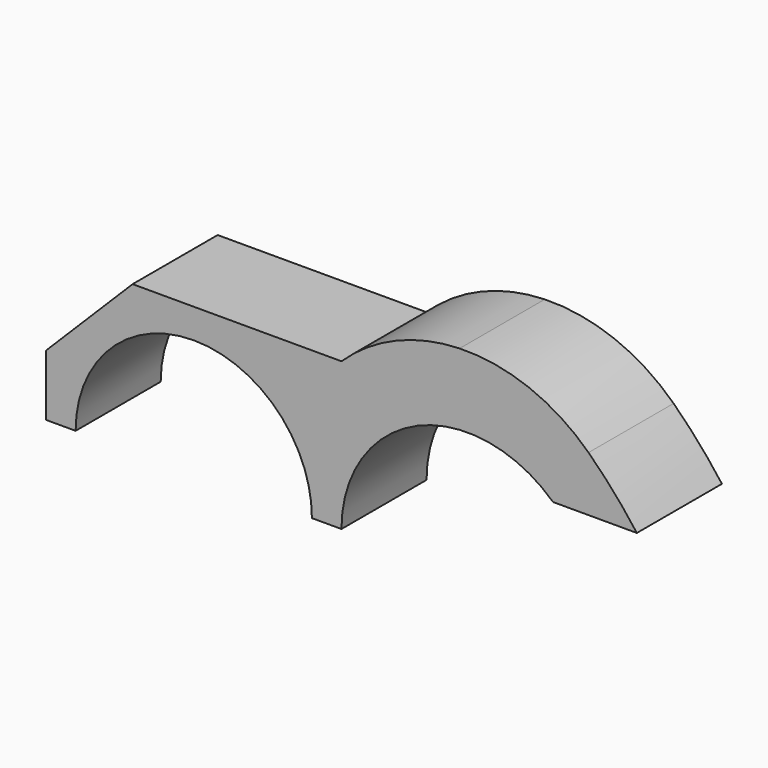
from build123d import *

# Parameters (mm, degrees)
F1_DEPTH = 18


with BuildPart() as f1:
    # F0 (on Front) → F1 (new body)
    with BuildSketch(Plane.XZ):
        with BuildLine():
            ThreePointArc((-65, 0), (-45, 20), (-25, 0))
            Line((-25, 0), (-20, 0))
            ThreePointArc((-20, 0), (-14.21591, 14.606193), (0, 21.292334))
            Line((0, 21.292334), (0, 33.414918))
            ThreePointArc((0, 33.414918), (-10.783153, 31.068804), (-20, 25))
            Line((-20, 25), (-45, 25))
            Line((-45, 25), (-55.355339, 25))
            Line((-55.355339, 25), (-70, 10.355339))
            Line((-70, 10.355339), (-70, 0))
            Line((-70, 0), (-65, 0))
        make_face()
        with BuildLine():
            Line((0, 33.414918), (0, 21.292334))
            ThreePointArc((0, 21.292334), (8.479607, 20.101861), (15.808112, 15.673094))
            Line((15.808112, 15.673094), (30, 15.673094))
            ThreePointArc((30, 15.673094), (26.107946, 20.509576), (21.821253, 25))
            ThreePointArc((21.821253, 25), (11.759714, 31.409282), (0, 33.414918))
        make_face()
    extrude(amount=F1_DEPTH)


solid = f1.part
